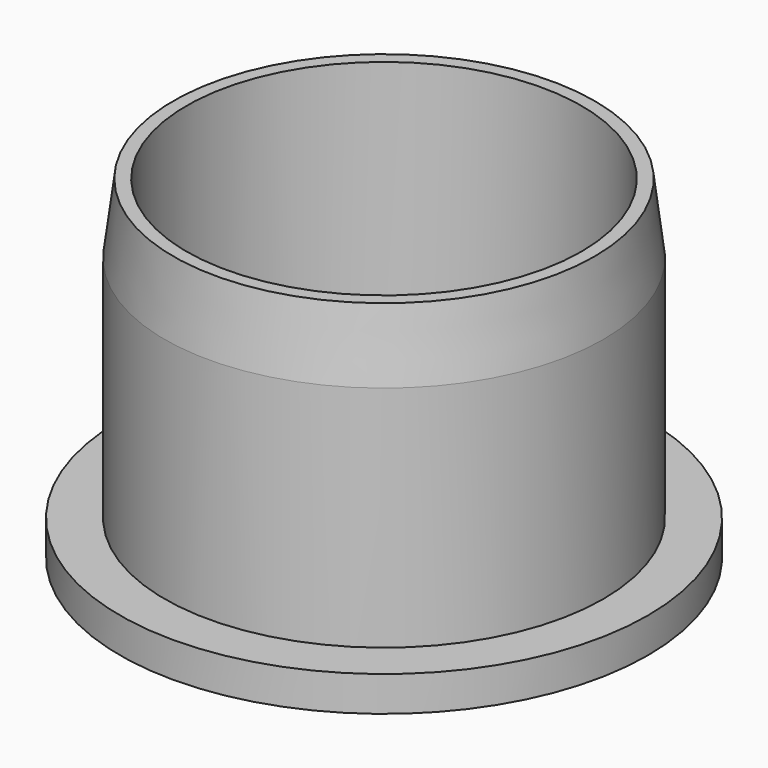
from build123d import *

# Parameters (mm, degrees)
F1_R     = 15.04
F1_R_2   = 12.5
F1_R_3   = 11.25
F2_DEPTH = 2
F3_DEPTH = 17.018
F4_SIZE2 = 4
F4_SIZE  = 0.5
F5_SIZE  = 1.25


with BuildPart() as f2:
    # F1 (on Top) → F2 (new body)
    with BuildSketch(Plane.XY):
        Circle(F1_R)
        Circle(F1_R_2, mode=Mode.SUBTRACT)
        Circle(F1_R_2)
        Circle(F1_R_3, mode=Mode.SUBTRACT)
    extrude(amount=-F2_DEPTH)

    # F1 (on Top) → F3 (join)
    with BuildSketch(Plane.XY):
        Circle(F1_R_2)
        Circle(F1_R_3, mode=Mode.SUBTRACT)
    extrude(amount=F3_DEPTH)

    # F4
    f4_edges = [f2.edges().sort_by_distance(p)[0] for p in [
        (-12.5, 0, 17.018),
    ]]
    f4_side = f2.faces().sort_by_distance((-12.146447, 0, 17.018))[0]
    chamfer(f4_edges, length=F4_SIZE, length2=F4_SIZE2, reference=f4_side)

    # F5
    f5_edges = [f2.edges().sort_by_distance(p)[0] for p in [
        (-11.25, 0, -2),
    ]]
    chamfer(f5_edges, length=F5_SIZE)


solid = f2.part
